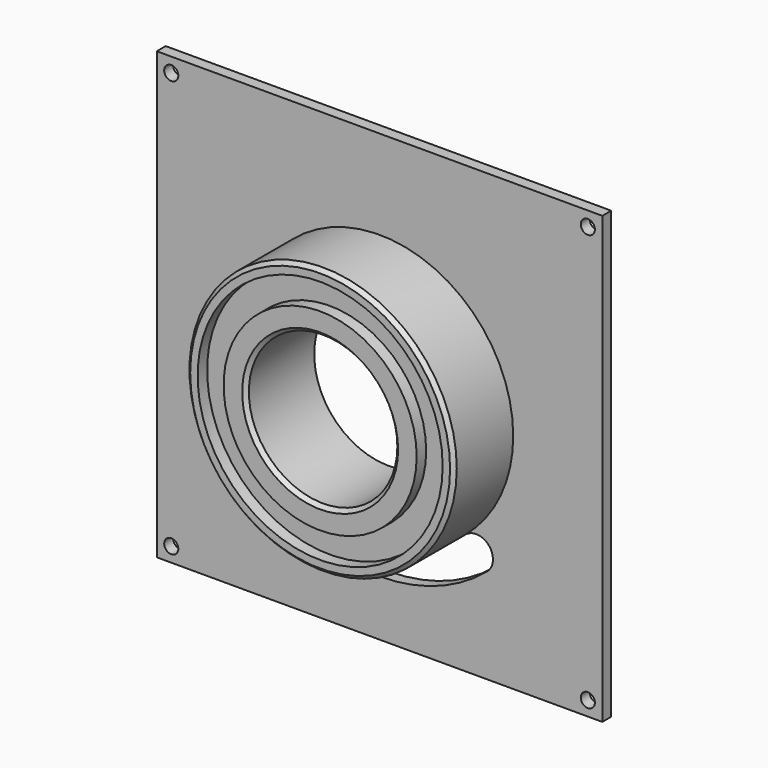
from build123d import *

# Parameters (mm, degrees)
SKETCH054_W     = 120
SKETCH054_H     = 120
PAD015_DEPTH    = 3
SKETCH065_R     = 1.9
POCKET034_DEPTH = 3.001
SKETCH064_R     = 20
POCKET036_DEPTH = 3.001
SKETCH058_R     = 36
PAD013_DEPTH    = 20
SKETCH055_R     = 20
POCKET035_DEPTH = 20.001
SKETCH056_R     = 33
SKETCH056_R_2   = 26
POCKET037_DEPTH = 3.2
CHAMFER003_SIZE = 1
CHAMFER002_SIZE = 1
POCKET042_DEPTH = 3.001


with BuildPart() as part:
    # Sketch054 → Pad015 (new body)
    with BuildSketch(Plane.XZ):
        with Locations((60, 60)):
            Rectangle(SKETCH054_W, SKETCH054_H)
    extrude(amount=PAD015_DEPTH)

    # Sketch065 (on Face6 of Pad015) → Pocket034 (cut, through all)
    with BuildSketch(Plane.XZ.offset(3)):
        with Locations((3.9, 3.9)):
            Circle(SKETCH065_R)
        with Locations((116.1, 3.9)):
            Circle(SKETCH065_R)
        with Locations((116.1, 116.1)):
            Circle(SKETCH065_R)
        with Locations((3.9, 116.1)):
            Circle(SKETCH065_R)
    extrude(amount=-POCKET034_DEPTH, mode=Mode.SUBTRACT)

    # Sketch064 (on Face5 of Pocket034) → Pocket036 (cut, through all)
    with BuildSketch(Plane.XZ.offset(3)):
        with Locations((60, 60)):
            Circle(SKETCH064_R)
    extrude(amount=-POCKET036_DEPTH, mode=Mode.SUBTRACT)

    # Sketch058 (on Face5 of Pocket036) → Pad013 (join)
    with BuildSketch(Plane.XZ.offset(3)):
        with Locations((60, 60)):
            Circle(SKETCH058_R)
    extrude(amount=PAD013_DEPTH)

    # Sketch055 (on Face13 of Pad013) → Pocket035 (cut, through all)
    with BuildSketch(Plane(origin=(0, -3, 0), x_dir=(1, 0, 0), z_dir=(0, 1, 0))):
        with Locations((60, -60)):
            Circle(SKETCH055_R)
    extrude(amount=-POCKET035_DEPTH, mode=Mode.SUBTRACT)

    # Sketch056 (on Face14 of Pocket035) → Pocket037 (cut)
    with BuildSketch(Plane.XZ.offset(23)):
        with Locations((60, 60)):
            Circle(SKETCH056_R)
        with Locations((60, 60)):
            Circle(SKETCH056_R_2, mode=Mode.SUBTRACT)
    extrude(amount=-POCKET037_DEPTH, mode=Mode.SUBTRACT)

    # Chamfer003
    chamfer003_edges = [part.edges().sort_by_distance(p)[0] for p in [
        (40, -23, 60),
    ]]
    chamfer(chamfer003_edges, length=CHAMFER003_SIZE)

    # Chamfer002
    chamfer002_edges = [part.edges().sort_by_distance(p)[0] for p in [
        (24, -23, 60),
    ]]
    chamfer(chamfer002_edges, length=CHAMFER002_SIZE)

    # Sketch066 (on Face3 of Chamfer002) → Pocket042 (cut, through all)
    with BuildSketch(Plane.XZ.offset(3)):
        with BuildLine():
            ThreePointArc((36.859646, 32.4224), (60, 24), (83.140354, 32.4224))
            ThreePointArc((88.925456, 25.528011), (89.480105, 31.867761), (83.140354, 32.4224))
            ThreePointArc((31.074571, 25.527989), (60.000017, 15), (88.925456, 25.528011))
            ThreePointArc((36.859646, 32.4224), (30.519908, 31.867728), (31.074571, 25.527989))
        make_face()
    extrude(amount=-POCKET042_DEPTH, mode=Mode.SUBTRACT)


with BuildPart() as part_1:
    # Body007 placement: moved
    add(part.part.moved(Location((-0.1, 0.5, -0.2))))


solid = part_1.part
